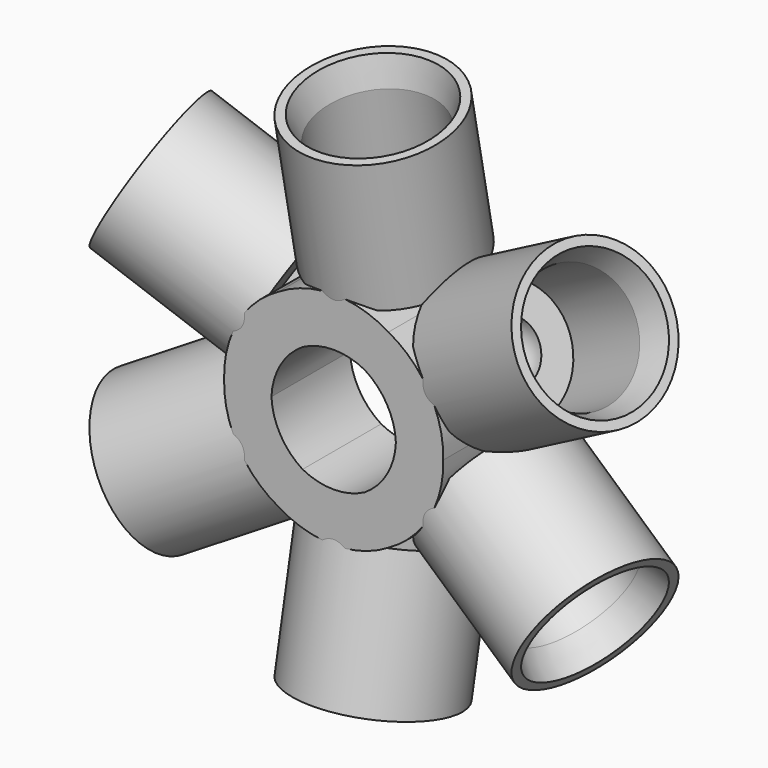
from build123d import *

# Parameters (mm, degrees)
F0_R          = 23.5
F0_R_2        = 15
F4_DEPTH      = 18
F4_DEPTH_BACK = 4
F6_COUNT      = 6


with BuildPart() as f3:
    # F2 (on line) → F3 (revolve)
    with BuildSketch(Plane(origin=(0, -3.7526447404, 0.7464474492), x_dir=(1, 0, 0), z_dir=(0, -0.9807852804, 0.195090322))):
        with BuildLine():
            Line((6.7275495715, 11.1909703114), (13.39, 11.1909703114))
            Line((13.39, 11.1909703114), (13.39, -10.2532064901))
            Line((13.39, -10.2532064901), (15.39, -16.5995957263))
            Line((15.39, -16.5995957263), (17.39, -16.5995957263))
            Line((17.39, -16.5995957263), (17.39, 15.1909703114))
            Line((17.39, 15.1909703114), (8.4690514833, 15.1909703114))
            ThreePointArc((8.4690514833, 15.1909703114), (5.0129940493, 19.1026530457), (0, 20.557123899))
            Line((0, 20.557123899), (0, 17.9185198829))
            ThreePointArc((0, 17.9185198829), (4.7570959228, 15.9480662342), (6.7275495715, 11.1909703114))
        make_face()
    revolve(axis=Axis((0, 0.0004681272, 19.6146199869), (0, 0.195090322, 0.9807852804)))

    # F0 (on Front) → F4 (join, two sides)
    with BuildSketch(Plane.XZ) as f4_sk:
        with Locations((0, 43.1122665526)):
            Circle(F0_R)
        with Locations((0, 43.1122665526)):
            Circle(F0_R_2, mode=Mode.SUBTRACT)
    extrude(amount=F4_DEPTH)
    extrude(f4_sk.sketch, amount=-F4_DEPTH_BACK)

    # F6: F3 ×6 about axis
    f6_axis = Axis((0, -4.9195094034, 41.8967977166), (0, 1, 0))


with BuildPart() as f3_1:
    add(f3.part)
    for i in range(1, F6_COUNT):
        add(f3.part.rotate(f6_axis, i * 360 / F6_COUNT))


solid = f3_1.part
